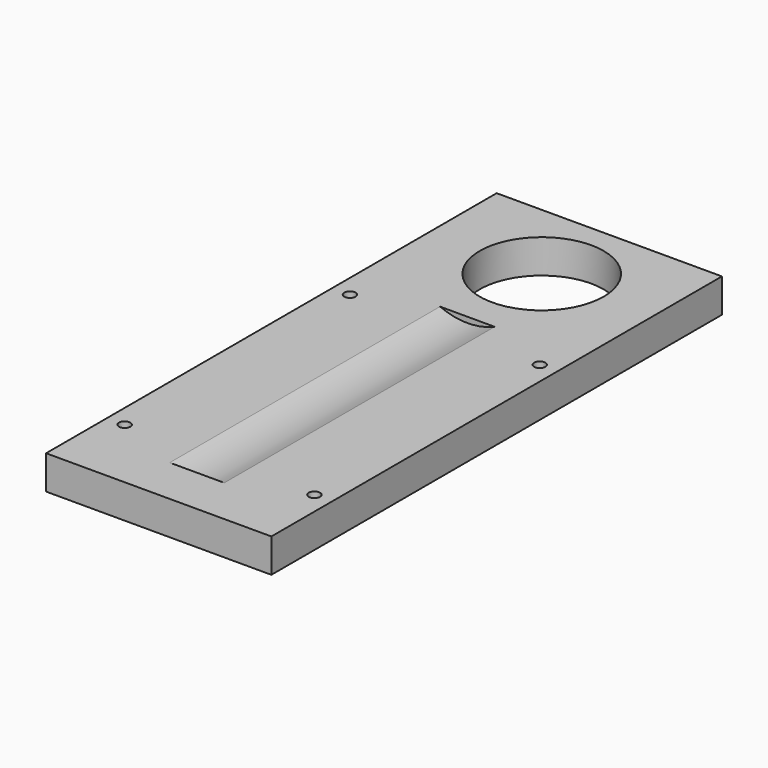
from build123d import *

# Parameters (mm, degrees)
F0_W     = 40
F0_H     = 100
F0_R     = 11
F1_DEPTH = 6
F3_START = 16.5
F2_R     = 12.25
F3_DEPTH = 60
F4_R     = 1
F5_DEPTH = 2


with BuildPart() as f1:
    # F0 (on Top) → F1 (new body)
    with BuildSketch(Plane.XY):
        with Locations((0, -35)):
            Rectangle(F0_W, F0_H)
        Circle(F0_R, mode=Mode.SUBTRACT)
    extrude(amount=F1_DEPTH)

    # F2 (on Front) → F3 (cut)
    with BuildSketch(Plane.XZ.offset(F3_START)):
        with Locations((0, 17.25)):
            Circle(F2_R)
    extrude(amount=F3_DEPTH, mode=Mode.SUBTRACT)

    # F4 (on face) → F5 (cut)
    with BuildSketch(Plane.XY.offset(6)):
        with Locations((-16.8476798574, -21.5)):
            Circle(F4_R)
        with Locations((16.8476798574, -21.5)):
            Circle(F4_R)
        with Locations((-16.8476798574, -71.5)):
            Circle(F4_R)
        with Locations((16.8476798574, -71.5)):
            Circle(F4_R)
    extrude(amount=-F5_DEPTH, mode=Mode.SUBTRACT)


solid = f1.part
